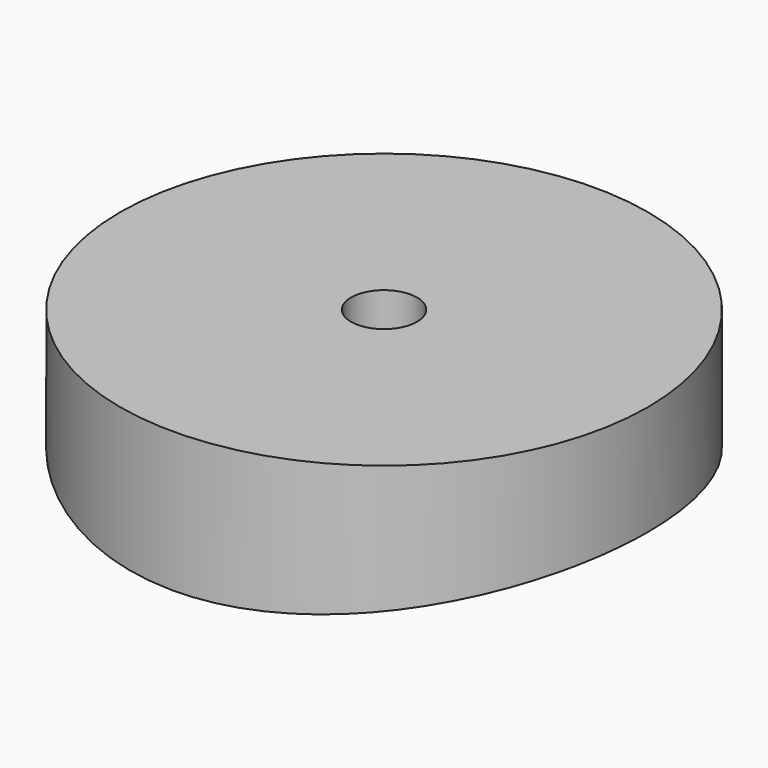
from build123d import *

# Parameters (mm, degrees)
F0_R     = 12
F1_DEPTH = 5
F2_R     = 53.4
F3_DEPTH = 12.5
F4_R     = 1.5
F5_DEPTH = 6.366781


with BuildPart() as f1:
    # F0 (on Top) → F1 (new body, symmetric)
    with BuildSketch(Plane.XY):
        Circle(F0_R)
    extrude(amount=F1_DEPTH, both=True)

    # F2 (on Right) → F3 (cut, symmetric)
    with BuildSketch(Plane.YZ):
        with Locations((0, -53.4)):
            Circle(F2_R)
    extrude(amount=F3_DEPTH, both=True, mode=Mode.SUBTRACT)

    # F4 (on face) → F5 (cut, through all)
    with BuildSketch(Plane.XY.offset(5)):
        Circle(F4_R)
    extrude(amount=-F5_DEPTH, mode=Mode.SUBTRACT)


solid = f1.part
